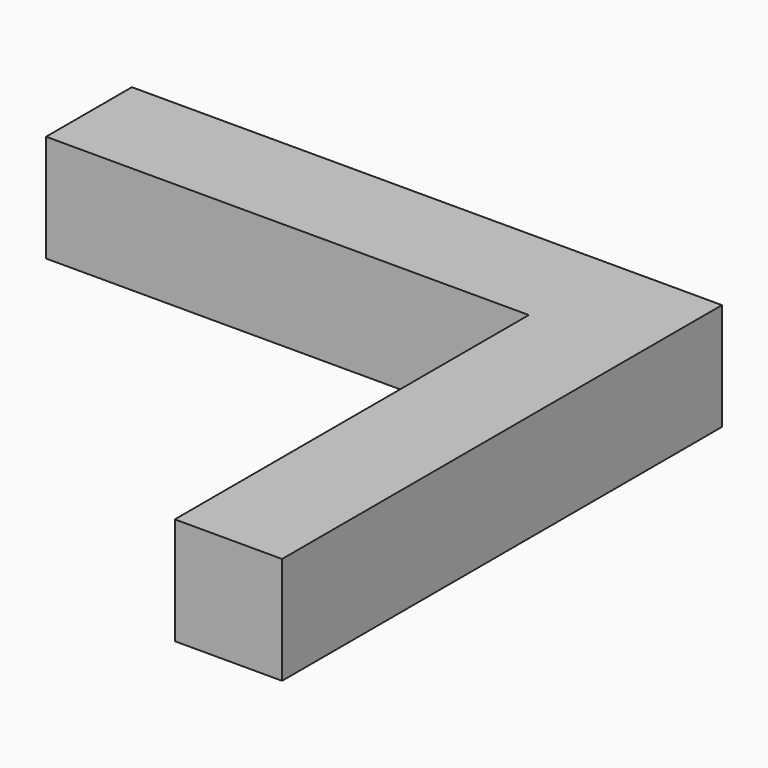
from build123d import *

# Parameters (mm, degrees)
BOX163_W     = 2
BOX163_H     = 10.25
BOX163_DEPTH = 2
BOX161_W     = 9
BOX161_H     = 2
BOX161_DEPTH = 2


with BuildPart() as cube152:
    # Box163 → Box163 (new body)
    with BuildSketch(Plane(origin=(75, 20, 2), x_dir=(1, 0, 0), z_dir=(0, 0, 1))):
        with Locations((1, 5.125)):
            Rectangle(BOX163_W, BOX163_H)
    extrude(amount=BOX163_DEPTH)


with BuildPart() as fusion051:
    # Box161 → Box161 (new body)
    with BuildSketch(Plane(origin=(66, 28.25, 2), x_dir=(1, 0, 0), z_dir=(0, 0, 1))):
        with Locations((4.5, 1)):
            Rectangle(BOX161_W, BOX161_H)
    extrude(amount=BOX161_DEPTH)

    # Fusion051: union Cube152
    add(cube152.part)


solid = fusion051.part
